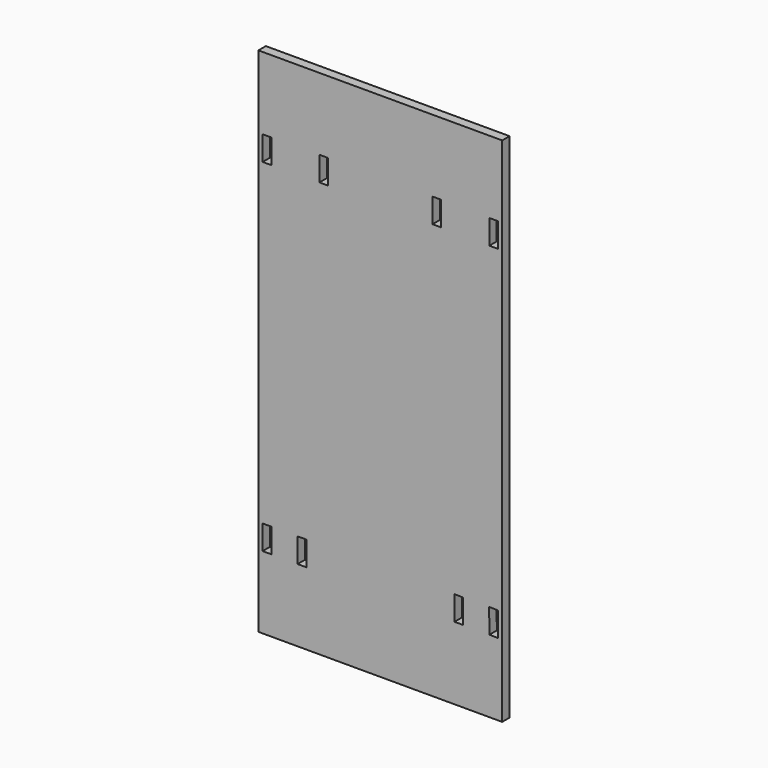
from build123d import *

# Parameters (mm, degrees)
F0_W     = 127
F0_H     = 266.7
F0_W_2   = 4.5
F0_H_2   = 12.7
F1_DEPTH = 4.826


with BuildPart() as f1:
    # F0 (on Front) → F1 (new body)
    with BuildSketch(Plane.XZ):
        with Locations((0, 32.769812)):
            Rectangle(F0_W, F0_H)
        with Locations((-59.054758, -56.475502)):
            Rectangle(F0_W_2, F0_H_2, mode=Mode.SUBTRACT)
        Polygon((-43.104758, -62.849627), (-43.104758, -50.149627), (-38.554112, -50.085164), (-38.554112, -62.849627), align=None, mode=Mode.SUBTRACT)
        Polygon((38.655718, -50.03741), (43.001247, -50.149624), (43.155718, -62.73741), (38.655718, -62.73741), align=None, mode=Mode.SUBTRACT)
        Polygon((56.856852, -62.745742), (56.701028, -50.047654), (61.304758, -50.125502), (61.304758, -62.825502), align=None, mode=Mode.SUBTRACT)
        with Locations((-59.054758, 122.015126)):
            Rectangle(F0_W_2, F0_H_2, mode=Mode.SUBTRACT)
        with Locations((-29.454758, 122.229226)):
            Rectangle(F0_W_2, F0_H_2, mode=Mode.SUBTRACT)
        with Locations((29.454758, 122.229226)):
            Rectangle(F0_W_2, F0_H_2, mode=Mode.SUBTRACT)
        with Locations((59.054758, 122.015126)):
            Rectangle(F0_W_2, F0_H_2, mode=Mode.SUBTRACT)
        with Locations((0, 32.769812)):
            Rectangle(F0_W, F0_H)
        with Locations((-59.054758, -56.475502)):
            Rectangle(F0_W_2, F0_H_2, mode=Mode.SUBTRACT)
        Polygon((-43.104758, -62.849627), (-43.104758, -50.149627), (-38.554112, -50.085164), (-38.554112, -62.849627), align=None, mode=Mode.SUBTRACT)
        Polygon((38.655718, -50.03741), (43.001247, -50.149624), (43.155718, -62.73741), (38.655718, -62.73741), align=None, mode=Mode.SUBTRACT)
        Polygon((56.856852, -62.745742), (56.701028, -50.047654), (61.304758, -50.125502), (61.304758, -62.825502), align=None, mode=Mode.SUBTRACT)
        with Locations((-59.054758, 122.015126)):
            Rectangle(F0_W_2, F0_H_2, mode=Mode.SUBTRACT)
        with Locations((-29.454758, 122.229226)):
            Rectangle(F0_W_2, F0_H_2, mode=Mode.SUBTRACT)
        with Locations((29.454758, 122.229226)):
            Rectangle(F0_W_2, F0_H_2, mode=Mode.SUBTRACT)
        with Locations((59.054758, 122.015126)):
            Rectangle(F0_W_2, F0_H_2, mode=Mode.SUBTRACT)
        with Locations((0, 32.769812)):
            Rectangle(F0_W, F0_H)
        with Locations((-59.054758, -56.475502)):
            Rectangle(F0_W_2, F0_H_2, mode=Mode.SUBTRACT)
        Polygon((-43.104758, -62.849627), (-43.104758, -50.149627), (-38.554112, -50.085164), (-38.554112, -62.849627), align=None, mode=Mode.SUBTRACT)
        Polygon((38.655718, -50.03741), (43.001247, -50.149624), (43.155718, -62.73741), (38.655718, -62.73741), align=None, mode=Mode.SUBTRACT)
        Polygon((56.856852, -62.745742), (56.701028, -50.047654), (61.304758, -50.125502), (61.304758, -62.825502), align=None, mode=Mode.SUBTRACT)
        with Locations((-59.054758, 122.015126)):
            Rectangle(F0_W_2, F0_H_2, mode=Mode.SUBTRACT)
        with Locations((-29.454758, 122.229226)):
            Rectangle(F0_W_2, F0_H_2, mode=Mode.SUBTRACT)
        with Locations((29.454758, 122.229226)):
            Rectangle(F0_W_2, F0_H_2, mode=Mode.SUBTRACT)
        with Locations((59.054758, 122.015126)):
            Rectangle(F0_W_2, F0_H_2, mode=Mode.SUBTRACT)
        with Locations((0, 32.769812)):
            Rectangle(F0_W, F0_H)
        with Locations((-59.054758, -56.475502)):
            Rectangle(F0_W_2, F0_H_2, mode=Mode.SUBTRACT)
        Polygon((-43.104758, -62.849627), (-43.104758, -50.149627), (-38.554112, -50.085164), (-38.554112, -62.849627), align=None, mode=Mode.SUBTRACT)
        Polygon((38.655718, -50.03741), (43.001247, -50.149624), (43.155718, -62.73741), (38.655718, -62.73741), align=None, mode=Mode.SUBTRACT)
        Polygon((56.856852, -62.745742), (56.701028, -50.047654), (61.304758, -50.125502), (61.304758, -62.825502), align=None, mode=Mode.SUBTRACT)
        with Locations((-59.054758, 122.015126)):
            Rectangle(F0_W_2, F0_H_2, mode=Mode.SUBTRACT)
        with Locations((-29.454758, 122.229226)):
            Rectangle(F0_W_2, F0_H_2, mode=Mode.SUBTRACT)
        with Locations((29.454758, 122.229226)):
            Rectangle(F0_W_2, F0_H_2, mode=Mode.SUBTRACT)
        with Locations((59.054758, 122.015126)):
            Rectangle(F0_W_2, F0_H_2, mode=Mode.SUBTRACT)
    extrude(amount=F1_DEPTH)


solid = f1.part
